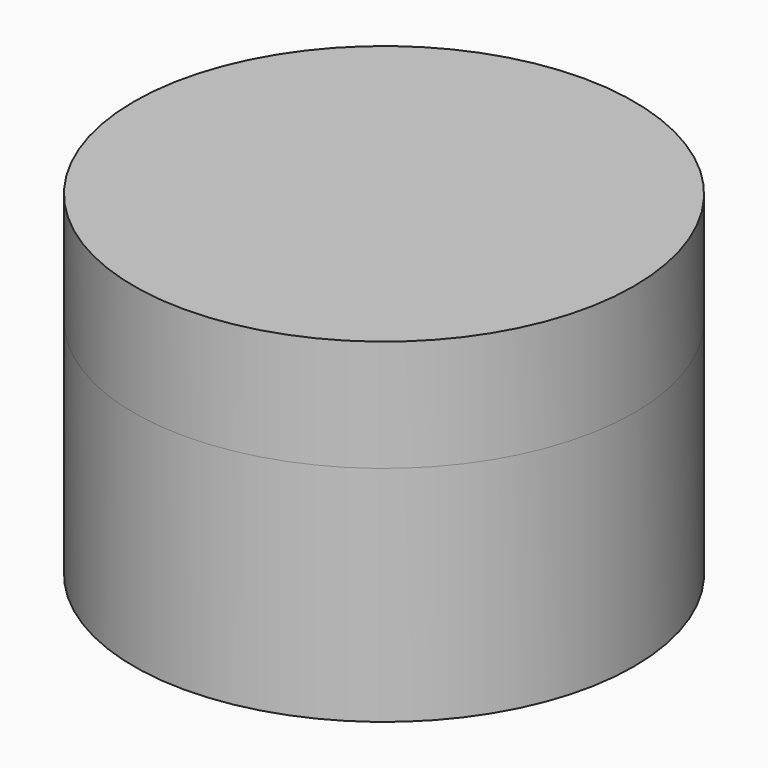
from build123d import *

# Parameters (mm, degrees)
F0_R      = 22.399117
F1_DEPTH  = 20
F1_FACE_R = 22.399117
F2_DEPTH  = 10


with BuildPart() as f1:
    # F0 (on Top) → F1 (new body)
    with BuildSketch(Plane.XY):
        Circle(F0_R)
    extrude(amount=F1_DEPTH)


with BuildPart() as f2:
    # F1_face (on face) → F2 (new body)
    with BuildSketch(Plane.XY.offset(20)):
        Circle(F1_FACE_R)
    extrude(amount=F2_DEPTH)


solid = Compound([f1.part, f2.part])
